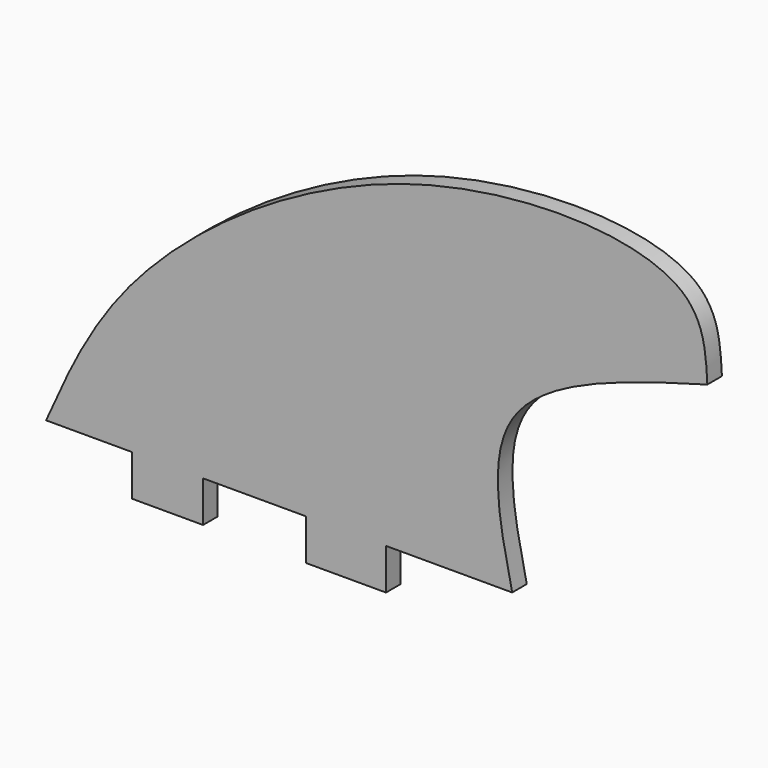
from build123d import *

# Parameters (mm, degrees)
F1_DEPTH = 7.5815878808


with BuildPart() as f1:
    # F0 (on Front) → F1 (new body)
    with BuildSketch(Plane.XZ):
        with BuildLine():
            add(Edge.make_bspline(
                [(-75.7008343935, -63.4910315275), (-66.4144495165, -42.5052410316), (-44.313199633, 7.4401399217), (70.4376625664, 87.310867627), (197.1244228991, 83.2168178798), (198.8326732602, 50.659285161), (199.4398534298, 39.0864834189)],
                knots=[0, 0, 0, 0, 0.2349968569, 0.5592835382, 0.8433443789, 1, 1, 1, 1], degree=3))
            Line((-75.7008343935, -63.4910315275), (-39.8853719234, -63.4910315275))
            Line((-39.8853719234, -63.4910315275), (-39.8853719234, -80.5847793818))
            Line((-39.8853719234, -80.5847793818), (-10.378330946, -80.5847793818))
            Line((-10.378330946, -80.5847793818), (-10.378330946, -63.4910315275))
            Line((-10.378330946, -63.4910315275), (32.3560237885, -63.4910315275))
            Line((32.3560237885, -63.4910315275), (32.3560237885, -80.5847793818))
            Line((32.3560237885, -80.5847793818), (65.7295137644, -80.5847793818))
            Line((65.7295137644, -80.5847793818), (65.7295137644, -63.4910315275))
            Line((65.7295137644, -63.4910315275), (118.2317137718, -63.4910315275))
            add(Edge.make_bspline(
                [(118.2317137718, -63.4910315275), (113.0478281627, -39.9936732412), (101.6877351814, 11.499009198), (165.0119918313, 29.3702932045), (199.4398534298, 39.0864834189)],
                knots=[0, 0, 0, 0, 0.4563242345, 1, 1, 1, 1], degree=3))
        make_face()
    extrude(amount=F1_DEPTH)


solid = f1.part
